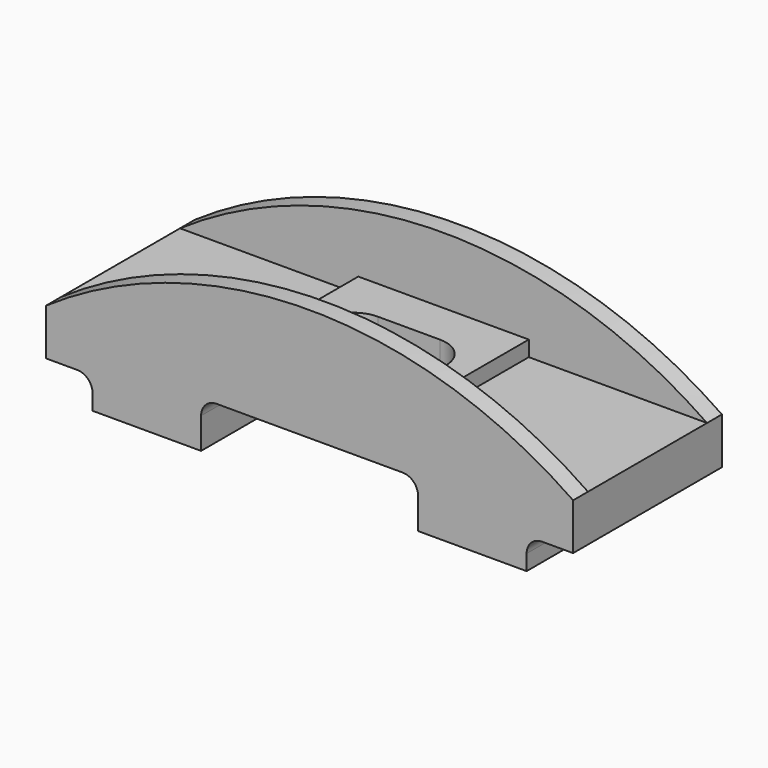
from build123d import *

# Parameters (mm, degrees)
F1_DEPTH = 300
F2_W     = 1700
F2_H     = 480
F3_DEPTH = 364.080291
F4_W     = 1700
F4_H     = 480
F5_DEPTH = 100
F6_W     = 550
F6_H     = 480
F7_DEPTH = 50
F9_DEPTH = 300.001
F10_R    = 50


with BuildPart() as f1:
    # F0 (on Front) → F1 (new body, symmetric)
    with BuildSketch(Plane.XZ):
        with BuildLine():
            Line((-350, 0), (0, 0))
            Line((0, 0), (350, 0))
            Line((350, 0), (350, -150))
            Line((350, -150), (700, -150))
            Line((700, -150), (700, -50))
            Line((700, -50), (850, -50))
            Line((850, -50), (850, 100))
            ThreePointArc((850, 100), (0, 364.079291), (-850, 100))
            Line((-850, 100), (-850, -50))
            Line((-850, -50), (-700, -50))
            Line((-700, -50), (-700, -150))
            Line((-700, -150), (-350, -150))
            Line((-350, -150), (-350, 0))
        make_face()
    extrude(amount=F1_DEPTH, both=True)

    # F2 (on Top) → F3 (cut, through all)
    with BuildSketch(Plane.XY):
        Rectangle(F2_W, F2_H)
    extrude(amount=F3_DEPTH, mode=Mode.SUBTRACT)

    # F4 (on face) → F5 (join)
    with BuildSketch(Plane.XY):
        Rectangle(F4_W, F4_H)
    extrude(amount=F5_DEPTH)

    # F6 (on face) → F7 (join)
    with BuildSketch(Plane.XY.offset(100)):
        Rectangle(F6_W, F6_H)
    extrude(amount=F7_DEPTH)

    # F8 (on face) → F9 (cut, through all)
    with BuildSketch(Plane.XY.offset(150)):
        with BuildLine():
            Line((-100, -100), (100, -100))
            ThreePointArc((100, -100), (200, 0), (100, 100))
            Line((100, 100), (-100, 100))
            ThreePointArc((-100, 100), (-200, 0), (-100, -100))
        make_face()
    extrude(amount=-F9_DEPTH, mode=Mode.SUBTRACT)

    # F10
    f10_edges = [f1.edges().sort_by_distance(p)[0] for p in [
        (-350, 0, 0),
        (350, 0, 0),
        (-700, 0, -50),
        (700, 0, -50),
    ]]
    fillet(f10_edges, radius=F10_R)


solid = f1.part
